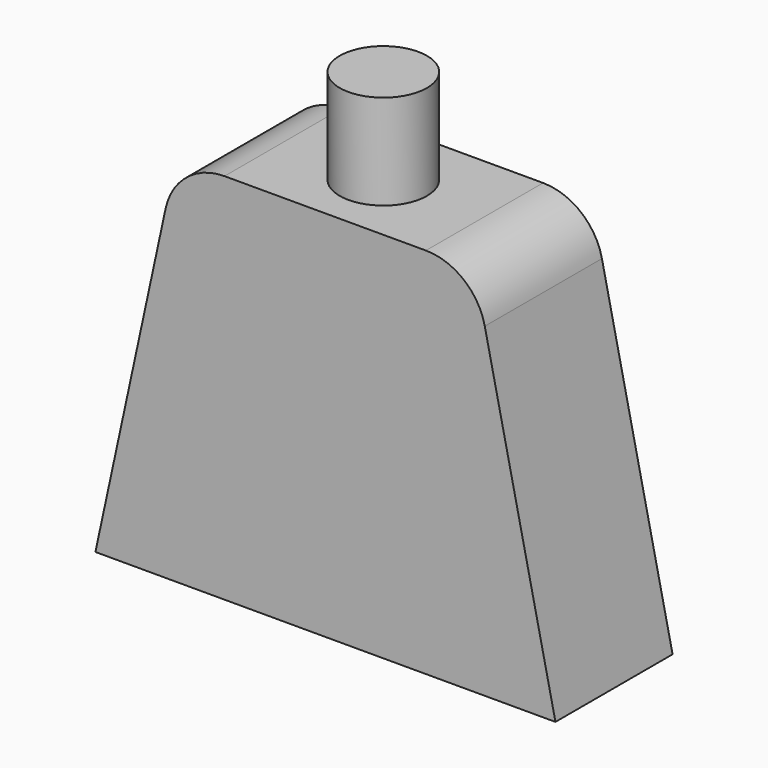
from build123d import *

# Parameters (mm, degrees)
F1_DEPTH = 15.434792
F2_R     = 4.597976
F3_DEPTH = 10.016784


with BuildPart() as f1:
    # F0 (on Front) → F1 (new body)
    with BuildSketch(Plane.XZ):
        with BuildLine():
            Line((7.403514, 34.292736), (0, 0))
            Line((0, 0), (48.493207, 0))
            Line((48.493207, 0), (41.044724, 34.300229))
            ThreePointArc((41.044724, 34.300229), (38.824678, 37.896346), (34.83935, 39.302698))
            Line((34.83935, 39.302698), (13.61051, 39.302698))
            ThreePointArc((13.61051, 39.302698), (9.622198, 37.89394), (7.403514, 34.292736))
        make_face()
    extrude(amount=F1_DEPTH)

    # F2 (on face) → F3 (join)
    with BuildSketch(Plane.XY.offset(39.302698)):
        with Locations((24.22493, -7.780451)):
            Circle(F2_R)
    extrude(amount=F3_DEPTH)


solid = f1.part
